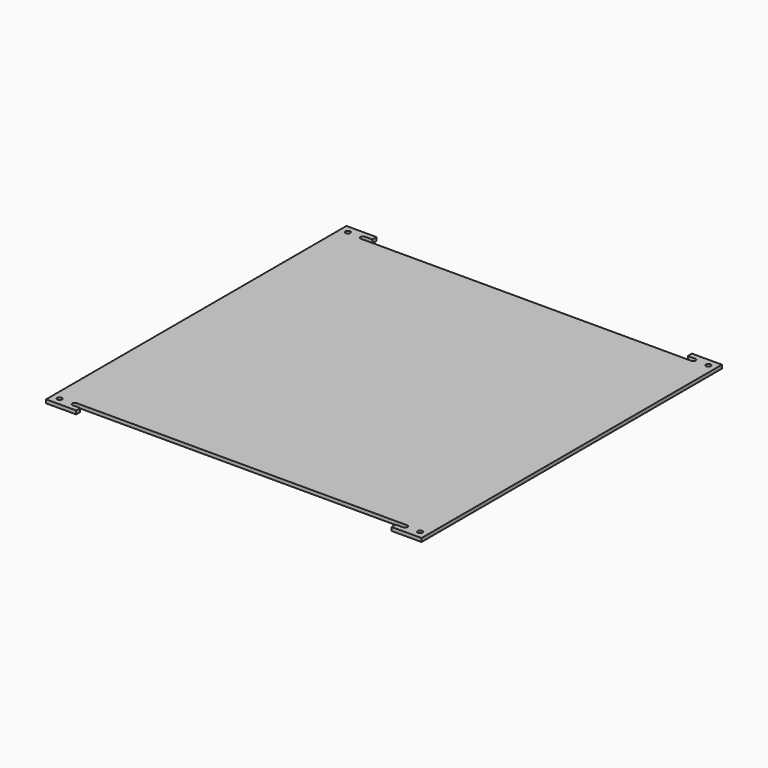
from build123d import *

# Parameters (mm, degrees)
SKETCH_R      = 3.9751
EXTRUDE_DEPTH = 5.9944


with BuildPart() as part:
    # Sketch → Extrude (new body)
    with BuildSketch(Plane.XY):
        with BuildLine():
            Line((0, 0), (0, -635))
            Line((0, -635), (50.8, -635))
            Line((50.8, -635), (50.8, -626.2751))
            Line((50.8, -626.2751), (38.1, -626.2751))
            ThreePointArc((38.1, -618.3249), (34.1249, -622.3), (38.1, -626.2751))
            Line((38.1, -618.3249), (596.9, -618.3249))
            ThreePointArc((596.9, -626.2751), (600.8751, -622.3), (596.9, -618.3249))
            Line((584.2, -626.2751), (596.9, -626.2751))
            Line((584.2, -635), (584.2, -626.2751))
            Line((635, -635), (584.2, -635))
            Line((635, 0), (635, -635))
            Line((584.2, 0), (635, 0))
            Line((584.2, -8.7249), (584.2, 0))
            Line((584.2, -8.7249), (596.9, -8.7249))
            ThreePointArc((596.9, -16.6751), (600.8751, -12.7), (596.9, -8.7249))
            Line((38.1, -16.6751), (596.9, -16.6751))
            ThreePointArc((38.1, -8.7249), (34.1249, -12.7), (38.1, -16.6751))
            Line((50.8, -8.7249), (38.1, -8.7249))
            Line((50.8, 0), (50.8, -8.7249))
            Line((0, 0), (50.8, 0))
        make_face()
        with Locations((12.7, -12.7)):
            Circle(SKETCH_R, mode=Mode.SUBTRACT)
        with Locations((12.7, -622.3)):
            Circle(SKETCH_R, mode=Mode.SUBTRACT)
        with Locations((622.3, -12.7)):
            Circle(SKETCH_R, mode=Mode.SUBTRACT)
        with Locations((622.3, -622.3)):
            Circle(SKETCH_R, mode=Mode.SUBTRACT)
    extrude(amount=EXTRUDE_DEPTH)


solid = part.part
